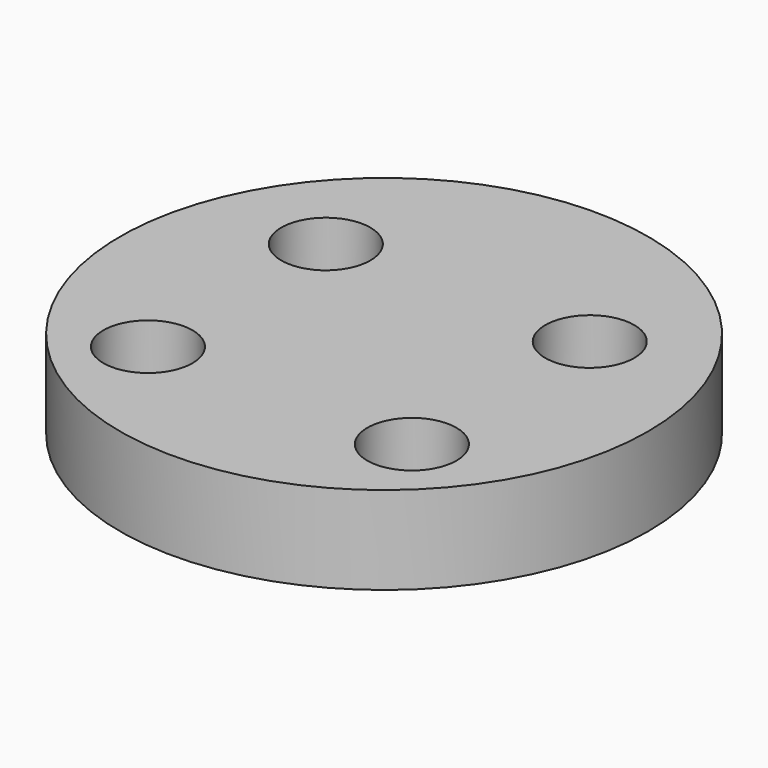
from build123d import *

# Parameters (mm, degrees)
F0_R     = 38.1
F0_R_2   = 6.431307
F1_DEPTH = 12.7


with BuildPart() as f1:
    # F0 (on Top) → F1 (new body)
    with BuildSketch(Plane.XY):
        with Locations((-34.765717, -13.047038)):
            Circle(F0_R)
        with Locations((-53.613236, -32.097038)):
            Circle(F0_R_2, mode=Mode.SUBTRACT)
        with Locations((-15.513236, -32.097038)):
            Circle(F0_R_2, mode=Mode.SUBTRACT)
        with Locations((-53.613236, 0)):
            Circle(F0_R_2, mode=Mode.SUBTRACT)
        with Locations((-15.513236, 0)):
            Circle(F0_R_2, mode=Mode.SUBTRACT)
    extrude(amount=F1_DEPTH)


solid = f1.part
